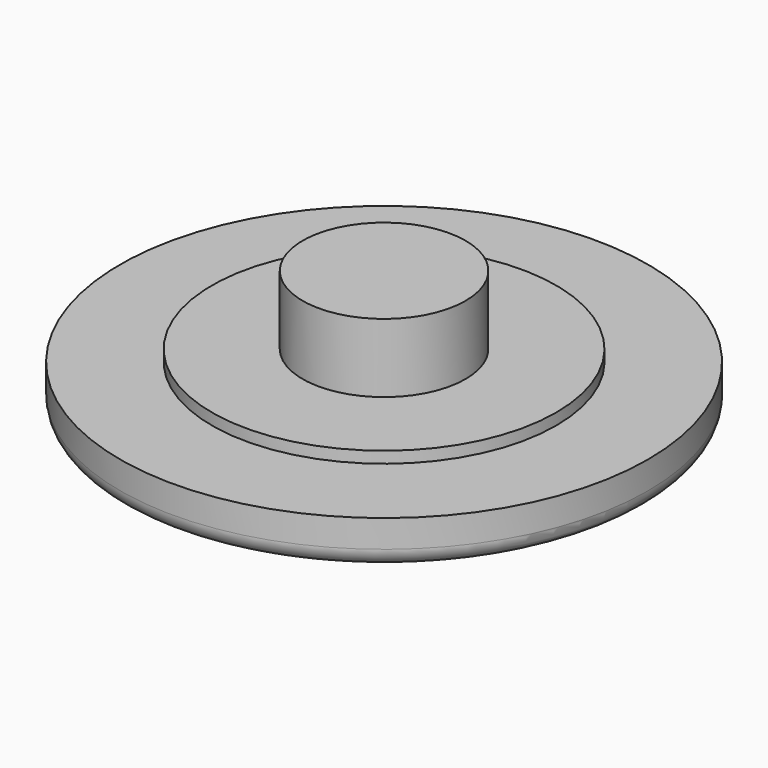
from build123d import *

# Parameters (mm, degrees)
F0_R     = 11.5
F1_DEPTH = 2
F2_R     = 7.5
F3_DEPTH = 0.5
F4_R     = 3.55
F5_DEPTH = 3
F7_DEPTH = 1
F8_R     = 0.8


with BuildPart() as f1:
    # F0 (on Top) → F1 (new body)
    with BuildSketch(Plane.XY):
        Circle(F0_R)
    extrude(amount=F1_DEPTH)

    # F2 (on face) → F3 (join)
    with BuildSketch(Plane.XY.offset(2)):
        Circle(F2_R)
    extrude(amount=F3_DEPTH)

    # F4 (on face) → F5 (join)
    with BuildSketch(Plane.XY.offset(2.5)):
        Circle(F4_R)
    extrude(amount=F5_DEPTH)

    # F6 (on face) → F7 (cut)
    with BuildSketch(Plane(origin=(0, 0, 0), x_dir=(1, 0, 0), z_dir=(0, 0, -1))):
        with BuildLine():
            ThreePointArc((-0.4961662294, -6.4166546046), (-5.5796541594, 0), (-0.4961662294, 6.4166546046))
            ThreePointArc((-0.4961662294, 6.4166546046), (-7.4491550771, 0), (-0.4961662294, -6.4166546046))
        make_face()
        with BuildLine():
            Line((1.6118148057, 7.7430446076), (1.6118148057, 8.9430446076))
            ThreePointArc((1.6118148057, 8.9430446076), (1.0118148057, 9.5430446076), (0.4118148057, 8.9430446076))
            Line((0.4118148057, 8.9430446076), (0.4118148057, 7.7430446076))
            ThreePointArc((0.4118148057, 7.7430446076), (1.0118148057, 7.1430446076), (1.6118148057, 7.7430446076))
        make_face()
        with BuildLine():
            ThreePointArc((1.6118148057, -7.7430446076), (1.0118148057, -7.1430446076), (0.4118148057, -7.7430446076))
            Line((0.4118148057, -7.7430446076), (0.4118148057, -8.9430446076))
            ThreePointArc((0.4118148057, -8.9430446076), (1.0118148057, -9.5430446076), (1.6118148057, -8.9430446076))
            Line((1.6118148057, -8.9430446076), (1.6118148057, -7.7430446076))
        make_face()
        with BuildLine():
            ThreePointArc((1.0118148057, 6.4373402714), (0.7114877838, 6.4303307418), (0.4118148057, 6.4093174184))
            Line((0.4118148057, 6.4093174184), (0.4118148057, -6.4093174184))
            ThreePointArc((0.4118148057, -6.4093174184), (0.7114877838, -6.4303307418), (1.0118148057, -6.4373402714))
            Line((1.0118148057, -6.4373402714), (1.0118148057, 6.4373402714))
        make_face()
        with BuildLine():
            ThreePointArc((1.0118148057, -6.4373402714), (7.4491550771, 0), (1.0118148057, 6.4373402714))
            Line((1.0118148057, 6.4373402714), (1.0118148057, -6.4373402714))
        make_face()
        with BuildLine():
            Line((4.9637218672, 8.0449038174), (4.3637218672, 7.0056733328))
            ThreePointArc((4.3637218672, 7.0056733328), (4.5833371095, 6.1860580905), (5.4029523517, 6.4056733328))
            Line((5.4029523517, 6.4056733328), (6.0029523517, 7.4449038174))
            ThreePointArc((6.0029523517, 7.4449038174), (5.7833371095, 8.2645190596), (4.9637218672, 8.0449038174))
        make_face()
        with BuildLine():
            Line((8.456718623, 4.9911375461), (7.4174881385, 4.3911375461))
            ThreePointArc((7.4174881385, 4.3911375461), (7.1978728962, 3.5715223038), (8.0174881385, 3.3519070615))
            Line((8.0174881385, 3.3519070615), (9.056718623, 3.9519070615))
            ThreePointArc((9.056718623, 3.9519070615), (9.2763338653, 4.7715223038), (8.456718623, 4.9911375461))
        make_face()
        with BuildLine():
            Line((9.9548594133, 0.6), (8.7548594133, 0.6))
            ThreePointArc((8.7548594133, 0.6), (8.1548594133, 0), (8.7548594133, -0.6))
            Line((8.7548594133, -0.6), (9.9548594133, -0.6))
            ThreePointArc((9.9548594133, -0.6), (10.5548594133, 0), (9.9548594133, 0.6))
        make_face()
        with BuildLine():
            Line((9.056718623, -3.9519070615), (8.0174881385, -3.3519070615))
            ThreePointArc((8.0174881385, -3.3519070615), (7.1978728962, -3.5715223038), (7.4174881385, -4.3911375461))
            Line((7.4174881385, -4.3911375461), (8.456718623, -4.9911375461))
            ThreePointArc((8.456718623, -4.9911375461), (9.2763338653, -4.7715223038), (9.056718623, -3.9519070615))
        make_face()
        with BuildLine():
            Line((6.0029523517, -7.4449038174), (5.4029523517, -6.4056733328))
            ThreePointArc((5.4029523517, -6.4056733328), (4.5833371095, -6.1860580905), (4.3637218672, -7.0056733328))
            Line((4.3637218672, -7.0056733328), (4.9637218672, -8.0449038174))
            ThreePointArc((4.9637218672, -8.0449038174), (5.7833371095, -8.2645190596), (6.0029523517, -7.4449038174))
        make_face()
        Polygon((-3.8030603375, 2.1452946133), (-4.9306933834, 1.548157713), (-3.6674308223, 1.368445539), align=None)
        Polygon((-4.022513503, 3.4022628198), (-3.8030603375, 2.1452946133), (-3.1061447883, 2.5143455137), align=None)
        Polygon((-3.1061447883, 2.5143455137), (-3.8030603375, 2.1452946133), (-3.6674308223, 1.368445539), (-2.8866916228, 1.2573773072), (-2.5397977764, 1.9655824393), align=None)
        Polygon((-2.8866916228, 1.2573773072), (-3.6674308223, 1.368445539), (-3.4479776567, 0.1114773325), align=None)
        Polygon((-1.9785117424, 3.1114824139), (-3.1061447883, 2.5143455137), (-2.5397977764, 1.9655824393), align=None)
        Polygon((-2.5397977764, 1.9655824393), (-2.8866916228, 1.2573773072), (-1.6234290616, 1.0776651331), align=None)
        Polygon((-2.8006232783, -1.6000521775), (-3.3599715105, -2.463868964), (-2.3997105171, -2.0938031454), align=None)
        Polygon((-3.4493137525, -0.8011463294), (-2.8006232783, -1.6000521775), (-2.4549270593, -1.0661840434), align=None)
        Polygon((-2.4549270593, -1.0661840434), (-2.8006232783, -1.6000521775), (-2.3997105171, -2.0938031454), (-1.8062365852, -1.8650898915), (-1.840362285, -1.2299863589), align=None)
        Polygon((-1.8062365852, -1.8650898915), (-2.3997105171, -2.0938031454), (-1.7510200429, -2.8927089935), align=None)
        Polygon((-1.8955788272, -0.2023672569), (-2.4549270593, -1.0661840434), (-1.840362285, -1.2299863589), align=None)
        Polygon((-1.840362285, -1.2299863589), (-1.8062365852, -1.8650898915), (-0.8459755918, -1.4950240729), align=None)
    extrude(amount=-F7_DEPTH, mode=Mode.SUBTRACT)

    # F8
    f8_edges = [f1.edges().sort_by_distance(p)[0] for p in [
        (-11.5, 0, 0),
    ]]
    fillet(f8_edges, radius=F8_R)


solid = f1.part
